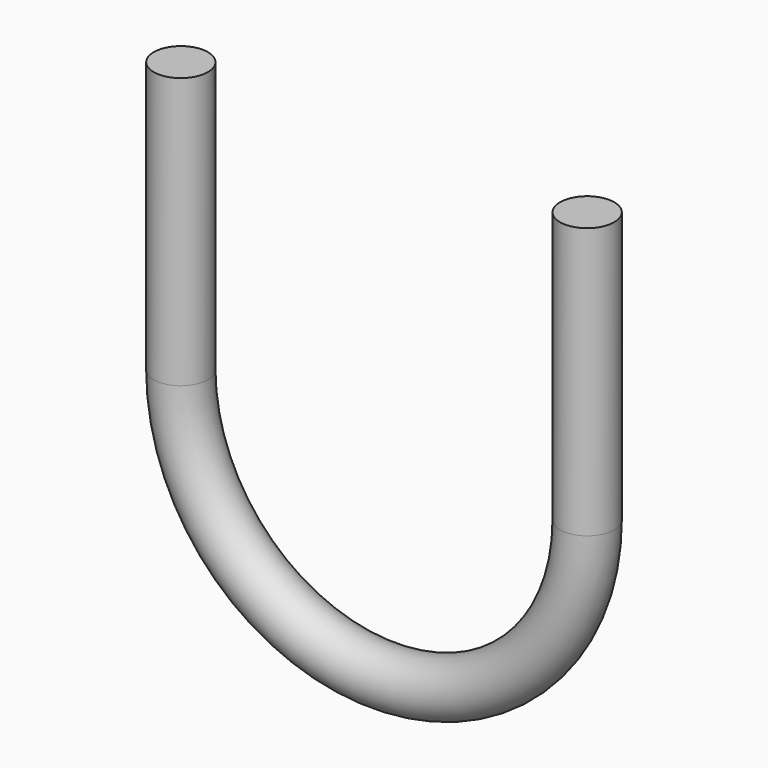
from build123d import *

# Parameters (mm, degrees)
F3_R = 5.08


with BuildPart() as f4:
    # F4: sweep along a path in F0
    with BuildLine(Plane.XZ) as f4_path:
        Line((-76.2, 0), (-76.2, -50.8))
        ThreePointArc((-76.2, -50.8), (-38.1, -88.9), (0, -50.8))
        Line((0, -50.8), (0, 0))
    # F3 (on face) → F4 (sweep)
    with BuildSketch(Plane(origin=(0, 0, 0), x_dir=(1, 0, 0), z_dir=(0, 0, -1))):
        with Locations((-76.2, 0)):
            Circle(F3_R)
    sweep(path=f4_path.line)


solid = f4.part
